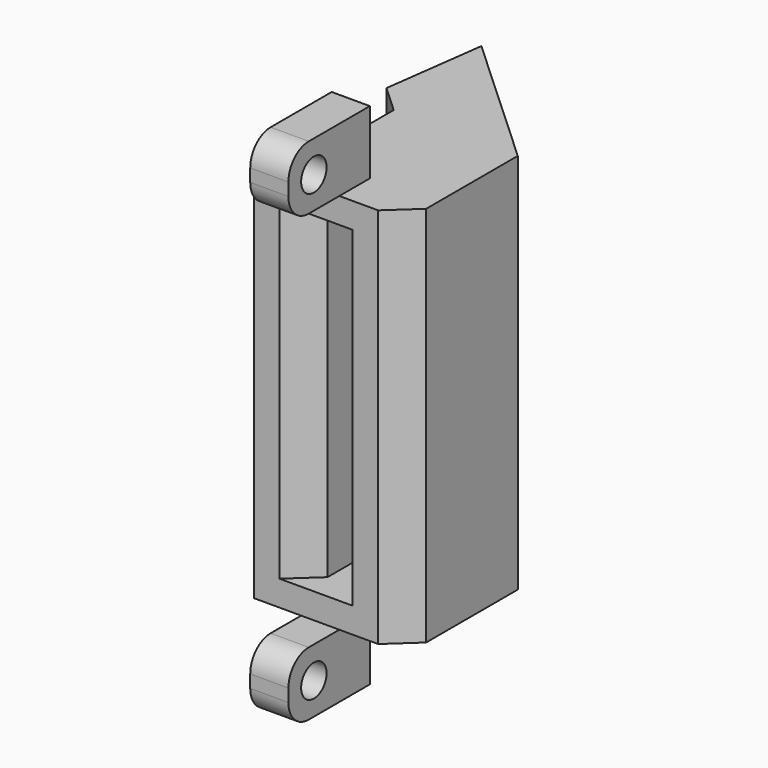
from build123d import *

# Parameters (mm, degrees)
PAD012_DEPTH            = 30
SKETCH028_W             = 5.75
SKETCH028_H             = 26
SKETCH030_W             = 2.875
SKETCH030_H             = 26
POCKET011_DEPTH         = 5
SKETCH031_W             = 3
SKETCH031_H             = 3
PAD013_DEPTH            = 5
PAD013_FACE6_W          = 3
PAD013_FACE6_H          = 5
PAD014_DEPTH            = 5
SKETCH032_W             = 3
SKETCH032_H             = 3
PAD015_DEPTH            = 5
PAD015_FACE7_W          = 3
PAD015_FACE7_H          = 5
PAD016_DEPTH            = 5
SKETCH033_R             = 1.25
POCKET012_DEPTH         = 5
FILLET001_R             = 2
BODY003_PLACEMENT_ANGLE = 180


with BuildPart() as part:
    # Sketch027 → Pad012 (new body)
    with BuildSketch(Plane.XY):
        Polygon((-9.75, -21), (-11.9217087917, -19), (-11.9217087917, -10), (-1.063164833, 0), (0, -8), (-2.1717087917, -10), (-2.1717087917, -19), (0, -21), align=None)
    extrude(amount=PAD012_DEPTH)

    # SubtractivePipe001: sweep along a path in Sketch029
    with BuildLine(Plane.XY.offset(30)) as subtractivepipe001_path:
        Line((-4.875, -21), (-7.0467087917, -19))
        Line((-7.0467087917, -19), (-7.0467087917, -10))
        Line((-7.0467087917, -10), (-0.5315824165, -4))
    # Sketch028 (on Face8 of Pad012) → SubtractivePipe001 (sweep, cut)
    with BuildSketch(Plane.XZ.offset(21)):
        with Locations((-4.875, 15)):
            Rectangle(SKETCH028_W, SKETCH028_H)
    sweep(path=subtractivepipe001_path.line, mode=Mode.SUBTRACT)

    # Sketch030 (on Face22 of SubtractivePipe001) → Pocket011 (cut)
    with BuildSketch(Plane.XZ.offset(4)):
        with Locations((-1.9690824165, 15)):
            Rectangle(SKETCH030_W, SKETCH030_H)
    extrude(amount=-POCKET011_DEPTH, mode=Mode.SUBTRACT)

    # Sketch031 (on Face4 of Pocket011) → Pad013 (join)
    with BuildSketch(Plane(origin=(0, 0, 0), x_dir=(1, 0, 0), z_dir=(0, 0, -1))):
        with Locations((-5.2, 19.5)):
            Rectangle(SKETCH031_W, SKETCH031_H)
    extrude(amount=PAD013_DEPTH)

    # Pad013 Face6 → Pad014 (add)
    with BuildSketch(Plane(origin=(-5.2, -21, -2.5), x_dir=(-1, 0, 0), z_dir=(0, -1, 0))):
        Rectangle(PAD013_FACE6_W, PAD013_FACE6_H)
    extrude(amount=PAD014_DEPTH)

    # Sketch032 (on Face5 of Pad014) → Pad015 (join)
    with BuildSketch(Plane.XY.offset(30)):
        with Locations((-5.2, -19.5)):
            Rectangle(SKETCH032_W, SKETCH032_H)
    extrude(amount=PAD015_DEPTH)

    # Pad015 Face7 → Pad016 (add)
    with BuildSketch(Plane(origin=(-5.2, -21, 32.5), x_dir=(-1, 0, 0), z_dir=(0, -1, 0))):
        Rectangle(PAD015_FACE7_W, PAD015_FACE7_H)
    extrude(amount=PAD016_DEPTH)

    # Sketch033 → Pocket012 (cut)
    with BuildSketch(Plane(origin=(-6.7, 0, 0), x_dir=(0, -1, 0), z_dir=(-1, 0, 0))):
        with Locations((23.5, -2.5)):
            Circle(SKETCH033_R)
        with Locations((23.5, 32.5)):
            Circle(SKETCH033_R)
    extrude(amount=-POCKET012_DEPTH, mode=Mode.SUBTRACT)

    # Fillet001
    fillet001_edges = [part.edges().sort_by_distance(p)[0] for p in [
        (-5.2, -26, 35),
        (-5.2, -26, 30),
        (-5.2, -26, 0),
        (-5.2, -26, -5),
    ]]
    fillet(fillet001_edges, radius=FILLET001_R)


with BuildPart() as part_1:
    # Body003 placement: moved
    add(part.part.moved(Location((30.1, 61.4, -0.2))).rotate(Axis((30.1, 61.4, -0.2), (0, 1, 0)), BODY003_PLACEMENT_ANGLE))


solid = part_1.part
